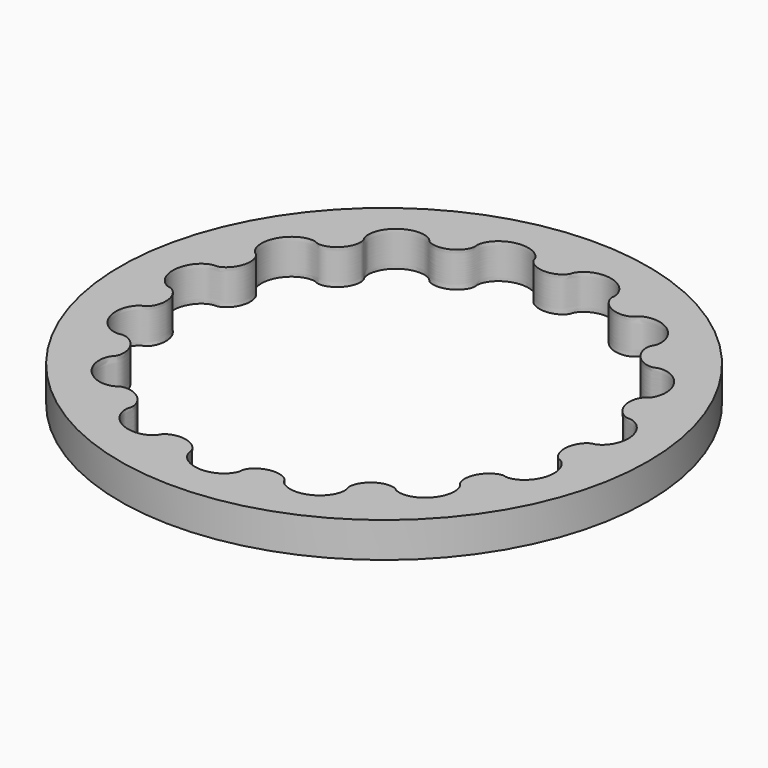
from build123d import *

# Parameters (mm, degrees)
PAD001_DEPTH = 2
SKETCH_R     = 15
PAD_DEPTH    = 2


with BuildPart() as pad001:
    # BSpline004 → Pad001 (new body)
    with BuildSketch(Plane.XY):
        with BuildLine():
            add(Edge.make_bspline(
                [(12.012584, -0.199604), (12.019755, -0.199195), (12.039746, -0.197416), (12.077758, -0.19092), (12.130612, -0.17674), (12.195961, -0.152197), (12.271058, -0.115179), (12.353306, -0.063921), (12.439895, 0.002867), (12.527839, 0.085935), (12.61406, 0.185463), (12.695494, 0.301045), (12.769197, 0.431703), (12.832459, 0.575918), (12.882894, 0.73168), (12.918533, 0.896564), (12.937895, 1.067811), (12.940042, 1.242429), (12.924613, 1.417302), (12.891837, 1.589299), (12.842528, 1.755388), (12.77805, 1.912746), (12.700273, 2.058859), (12.6115, 2.191612), (12.514385, 2.309365), (12.411837, 2.411009), (12.306911, 2.496005), (12.202701, 2.564393), (12.102226, 2.616819), (12.008345, 2.654402), (11.923591, 2.679019), (11.850375, 2.692248), (11.790405, 2.698159), (11.74649, 2.695723), (11.721197, 2.696599), (11.711479, 2.692953), (11.706136, 2.691796), (11.692254, 2.692401), (11.666474, 2.693789), (11.628489, 2.700222), (11.579362, 2.712584), (11.52043, 2.733193), (11.453461, 2.763355), (11.380446, 2.804289), (11.303561, 2.856724), (11.225076, 2.921006), (11.147281, 2.997039), (11.072401, 3.084313), (11.002524, 3.181911), (10.939528, 3.288546), (10.885016, 3.402607), (10.840262, 3.522215), (10.806165, 3.645285), (10.783223, 3.769604), (10.771509, 3.892901), (10.770674, 4.012932), (10.779955, 4.127551), (10.798201, 4.234791), (10.823913, 4.332928), (10.855294, 4.420541), (10.890304, 4.496574), (10.926754, 4.560339), (10.962318, 4.611652), (10.994795, 4.650529), (11.021745, 4.678061), (11.041786, 4.694337), (11.052661, 4.702985), (11.057664, 4.70519), (11.067669, 4.707952), (11.087616, 4.723528), (11.124576, 4.74737), (11.169618, 4.787402), (11.221076, 4.841139), (11.275173, 4.910872), (11.329034, 4.996459), (11.379505, 5.09793), (11.423615, 5.21451), (11.458543, 5.344948), (11.481761, 5.487455), (11.491115, 5.639802), (11.484903, 5.799381), (11.461943, 5.963305), (11.421614, 6.12851), (11.363882, 6.291862), (11.289301, 6.450275), (11.198996, 6.60082), (11.09462, 6.740827), (10.9783, 6.867988), (10.852551, 6.980433), (10.720193, 7.076803), (10.584246, 7.156291), (10.447819, 7.218673), (10.314004, 7.264317), (10.185739, 7.294152), (10.065797, 7.309682), (9.956383, 7.312757), (9.860041, 7.306072), (9.77655, 7.291311), (9.712032, 7.274372), (9.653713, 7.250571), (9.63503, 7.242732), (9.591726, 7.217216), (9.607147, 7.225587), (9.593198, 7.217336), (9.581709, 7.213628), (9.550208, 7.202361), (9.510035, 7.193579), (9.455403, 7.185542), (9.389504, 7.182099), (9.312522, 7.184648), (9.226253, 7.195174), (9.132361, 7.215073), (9.032891, 7.245473), (8.930006, 7.287081), (8.825974, 7.340195), (8.723068, 7.404685), (8.623495, 7.48), (8.529319, 7.565191), (8.44239, 7.658941), (8.364278, 7.75961), (8.296221, 7.865296), (8.23908, 7.973899), (8.193312, 8.08319), (8.158951, 8.190893), (8.135602, 8.294757), (8.12247, 8.392654), (8.118337, 8.482585), (8.121753, 8.562972), (8.130616, 8.632016), (8.143663, 8.689877), (8.156469, 8.732659), (8.172306, 8.768445), (8.177101, 8.780032), (8.189854, 8.799488), (8.184407, 8.790112), (8.203678, 8.816895), (8.212824, 8.830454), (8.241054, 8.880346), (8.264976, 8.937403), (8.289614, 9.01379), (8.308601, 9.104054), (8.320156, 9.208824), (8.321242, 9.325983), (8.309658, 9.453687), (8.28346, 9.589448), (8.241243, 9.730531), (8.182129, 9.873949), (8.105819, 10.016603), (8.012603, 10.155384), (7.903353, 10.287287), (7.77949, 10.409518), (7.642936, 10.519598), (7.496045, 10.615452), (7.34152, 10.695482), (7.182313, 10.758625), (7.02152, 10.804393), (6.862266, 10.832885), (6.7076, 10.844788), (6.560377, 10.841341), (6.423165, 10.824304), (6.298132, 10.795859), (6.187043, 10.758621), (6.090971, 10.715257), (6.010992, 10.669306), (5.945958, 10.622269), (5.899085, 10.581886), (5.860359, 10.53962), (5.850289, 10.526732), (5.830773, 10.500128), (5.838006, 10.508205), (5.823443, 10.490065), (5.813906, 10.481923), (5.784765, 10.455803), (5.748034, 10.430404), (5.697036, 10.400114), (5.63411, 10.37035), (5.558714, 10.34226), (5.471907, 10.318401), (5.374744, 10.300638), (5.268748, 10.290749), (5.155698, 10.290146), (5.037613, 10.299901), (4.916668, 10.320685), (4.795123, 10.352753), (4.675243, 10.395933), (4.55922, 10.449638), (4.449097, 10.512878), (4.346698, 10.584304), (4.253565, 10.662245), (4.170902, 10.744773), (4.099538, 10.829764), (4.039887, 10.914972), (3.991949, 10.998119), (3.955278, 11.076913), (3.929066, 11.149339), (3.911977, 11.213077), (3.902738, 11.267519), (3.898676, 11.308439), (3.899657, 11.34188), (3.899633, 11.353953), (3.90317, 11.369769), (3.899974, 11.352516), (3.91086, 11.401585), (3.912542, 11.421776), (3.917156, 11.484596), (3.913329, 11.55119), (3.901567, 11.635156), (3.878154, 11.728849), (3.841418, 11.831958), (3.789584, 11.94123), (3.721574, 12.053998), (3.636812, 12.167159), (3.535325, 12.277632), (3.417718, 12.382362), (3.285164, 12.478462), (3.139363, 12.563308), (2.982481, 12.634641), (2.817073, 12.690643), (2.645991, 12.730008), (2.472284, 12.751986), (2.299086, 12.756414), (2.129505, 12.743719), (1.966509, 12.7149), (1.812821, 12.671494), (1.670821, 12.615521), (1.542463, 12.549401), (1.429203, 12.475876), (1.331959, 12.3979), (1.251051, 12.318542), (1.186296, 12.24087), (1.136694, 12.167871), (1.101488, 12.102327), (1.077334, 12.047119), (1.06608, 12.0046), (1.057431, 11.980816), (1.057896, 11.970447), (1.057345, 11.965008), (1.05248, 11.951992), (1.043194, 11.927902), (1.025337, 11.893764), (0.998399, 11.850863), (0.960588, 11.801183), (0.911207, 11.746812), (0.849714, 11.69002), (0.776086, 11.633101), (0.690698, 11.578322), (0.594345, 11.52783), (0.488204, 11.483584), (0.37379, 11.447287), (0.252907, 11.420326), (0.127583, 11.403729), (0, 11.398126), (-0.127583, 11.403729), (-0.252907, 11.420326), (-0.37379, 11.447287), (-0.488204, 11.483584), (-0.594345, 11.52783), (-0.690698, 11.578322), (-0.776086, 11.633101), (-0.849714, 11.69002), (-0.911207, 11.746812), (-0.960588, 11.801183), (-0.998399, 11.850863), (-1.025337, 11.893764), (-1.043194, 11.927902), (-1.05248, 11.951992), (-1.057345, 11.965008), (-1.057896, 11.970447), (-1.057431, 11.980816), (-1.06608, 12.0046), (-1.077334, 12.047119), (-1.101488, 12.102327), (-1.136694, 12.167871), (-1.186296, 12.24087), (-1.251051, 12.318542), (-1.331959, 12.3979), (-1.429203, 12.475876), (-1.542463, 12.549401), (-1.670821, 12.615521), (-1.812821, 12.671494), (-1.966509, 12.7149), (-2.129505, 12.743719), (-2.299086, 12.756414), (-2.472284, 12.751986), (-2.645991, 12.730008), (-2.817073, 12.690643), (-2.982481, 12.634641), (-3.139363, 12.563308), (-3.285164, 12.478462), (-3.417718, 12.382362), (-3.535325, 12.277632), (-3.636812, 12.167159), (-3.721574, 12.053998), (-3.789584, 11.94123), (-3.841418, 11.831958), (-3.878154, 11.728849), (-3.901567, 11.635156), (-3.913329, 11.55119), (-3.917156, 11.484596), (-3.912542, 11.421776), (-3.91086, 11.401585), (-3.899974, 11.352516), (-3.90317, 11.369769), (-3.899633, 11.353953), (-3.899657, 11.34188), (-3.898676, 11.308439), (-3.902738, 11.267519), (-3.911977, 11.213077), (-3.929066, 11.149339), (-3.955278, 11.076913), (-3.991949, 10.998119), (-4.039887, 10.914972), (-4.099538, 10.829764), (-4.170902, 10.744773), (-4.253565, 10.662245), (-4.346698, 10.584304), (-4.449097, 10.512878), (-4.55922, 10.449638), (-4.675243, 10.395933), (-4.795123, 10.352753), (-4.916668, 10.320685), (-5.037613, 10.299901), (-5.155698, 10.290146), (-5.268748, 10.290749), (-5.374744, 10.300638), (-5.471907, 10.318401), (-5.558714, 10.34226), (-5.63411, 10.37035), (-5.697036, 10.400114), (-5.748034, 10.430404), (-5.784765, 10.455803), (-5.813906, 10.481923), (-5.823443, 10.490065), (-5.838006, 10.508205), (-5.830773, 10.500128), (-5.850289, 10.526732), (-5.860359, 10.53962), (-5.899085, 10.581886), (-5.945958, 10.622269), (-6.010992, 10.669306), (-6.090971, 10.715257), (-6.187043, 10.758621), (-6.298132, 10.795859), (-6.423165, 10.824304), (-6.560377, 10.841341), (-6.7076, 10.844788), (-6.862266, 10.832885), (-7.02152, 10.804393), (-7.182313, 10.758625), (-7.34152, 10.695482), (-7.496045, 10.615452), (-7.642936, 10.519598), (-7.77949, 10.409518), (-7.903353, 10.287287), (-8.012603, 10.155384), (-8.105819, 10.016603), (-8.182129, 9.873949), (-8.241243, 9.730531), (-8.28346, 9.589448), (-8.309658, 9.453687), (-8.321242, 9.325983), (-8.320156, 9.208824), (-8.308601, 9.104054), (-8.289614, 9.01379), (-8.264976, 8.937403), (-8.241054, 8.880346), (-8.212824, 8.830454), (-8.203678, 8.816895), (-8.184407, 8.790112), (-8.189854, 8.799488), (-8.177101, 8.780032), (-8.172306, 8.768445), (-8.156469, 8.732659), (-8.143663, 8.689877), (-8.130616, 8.632016), (-8.121753, 8.562972), (-8.118337, 8.482585), (-8.12247, 8.392654), (-8.135602, 8.294757), (-8.158951, 8.190893), (-8.193312, 8.08319), (-8.23908, 7.973899), (-8.296221, 7.865296), (-8.364278, 7.75961), (-8.44239, 7.658941), (-8.529319, 7.565191), (-8.623495, 7.48), (-8.723068, 7.404685), (-8.825974, 7.340195), (-8.930006, 7.287081), (-9.032891, 7.245473), (-9.132361, 7.215073), (-9.226253, 7.195174), (-9.312522, 7.184648), (-9.389504, 7.182099), (-9.455403, 7.185542), (-9.510035, 7.193579), (-9.550208, 7.202361), (-9.581709, 7.213628), (-9.593198, 7.217336), (-9.607147, 7.225587), (-9.591726, 7.217216), (-9.63503, 7.242732), (-9.653713, 7.250571), (-9.712032, 7.274372), (-9.77655, 7.291311), (-9.860041, 7.306072), (-9.956383, 7.312757), (-10.065797, 7.309682), (-10.185739, 7.294152), (-10.314004, 7.264317), (-10.447819, 7.218673), (-10.584246, 7.156291), (-10.720193, 7.076803), (-10.852551, 6.980433), (-10.9783, 6.867988), (-11.09462, 6.740827), (-11.198996, 6.60082), (-11.289301, 6.450275), (-11.363882, 6.291862), (-11.421614, 6.12851), (-11.461943, 5.963305), (-11.484903, 5.799381), (-11.491115, 5.639802), (-11.481761, 5.487455), (-11.458543, 5.344948), (-11.423615, 5.21451), (-11.379505, 5.09793), (-11.329034, 4.996459), (-11.275173, 4.910872), (-11.221076, 4.841139), (-11.169618, 4.787402), (-11.124576, 4.74737), (-11.087616, 4.723528), (-11.067669, 4.707952), (-11.057664, 4.70519), (-11.052661, 4.702985), (-11.041786, 4.694337), (-11.021745, 4.678061), (-10.994795, 4.650529), (-10.962318, 4.611652), (-10.926754, 4.560339), (-10.890304, 4.496574), (-10.855294, 4.420541), (-10.823913, 4.332928), (-10.798201, 4.234791), (-10.779955, 4.127551), (-10.770674, 4.012932), (-10.771509, 3.892901), (-10.783223, 3.769604), (-10.806165, 3.645285), (-10.840262, 3.522215), (-10.885016, 3.402607), (-10.939528, 3.288546), (-11.002524, 3.181911), (-11.072401, 3.084313), (-11.147281, 2.997039), (-11.225076, 2.921006), (-11.303561, 2.856724), (-11.380446, 2.804289), (-11.453461, 2.763355), (-11.52043, 2.733193), (-11.579362, 2.712584), (-11.628489, 2.700222), (-11.666474, 2.693789), (-11.692254, 2.692401), (-11.706136, 2.691796), (-11.711479, 2.692953), (-11.721197, 2.696599), (-11.74649, 2.695723), (-11.790405, 2.698159), (-11.850375, 2.692248), (-11.923591, 2.679019), (-12.008345, 2.654402), (-12.102226, 2.616819), (-12.202701, 2.564393), (-12.306911, 2.496005), (-12.411837, 2.411009), (-12.514385, 2.309365), (-12.6115, 2.191612), (-12.700273, 2.058859), (-12.77805, 1.912746), (-12.842528, 1.755388), (-12.891837, 1.589299), (-12.924613, 1.417302), (-12.940042, 1.242429), (-12.937895, 1.067811), (-12.918533, 0.896564), (-12.882894, 0.73168), (-12.832459, 0.575918), (-12.769197, 0.431703), (-12.695493, 0.301045), (-12.614063, 0.185463), (-12.527831, 0.085934), (-12.439924, 0.00287), (-12.353214, -0.06393), (-12.271342, -0.11515), (-12.19512, -0.152282), (-12.132967, -0.176501), (-12.071796, -0.191525), (-12.052074, -0.196165), (-12.002043, -0.200975), (-12.019439, -0.198683), (-12.003304, -0.200207), (-11.99183, -0.203961), (-11.959722, -0.213361), (-11.922059, -0.22987), (-11.873137, -0.25548), (-11.8178, -0.291428), (-11.757019, -0.338739), (-11.693412, -0.397963), (-11.629149, -0.469249), (-11.566545, -0.552311), (-11.507766, -0.646446), (-11.454821, -0.750565), (-11.409474, -0.863225), (-11.373188, -0.982684), (-11.347072, -1.10696), (-11.33185, -1.2339), (-11.327828, -1.361257), (-11.334889, -1.486762), (-11.352496, -1.60821), (-11.379709, -1.72353), (-11.415216, -1.830861), (-11.457376, -1.928613), (-11.504295, -2.015532), (-11.55381, -2.090717), (-11.603825, -2.153743), (-11.651578, -2.204392), (-11.696144, -2.243533), (-11.73165, -2.270618), (-11.765497, -2.290261), (-11.776187, -2.296815), (-11.79794, -2.30506), (-11.788023, -2.300676), (-11.819356, -2.311017), (-11.834725, -2.316611), (-11.886889, -2.34038), (-11.93978, -2.37248), (-12.004612, -2.419796), (-12.073028, -2.481662), (-12.143958, -2.55963), (-12.213702, -2.653775), (-12.279392, -2.763899), (-12.337996, -2.889131), (-12.386768, -3.028083), (-12.423243, -3.178857), (-12.445357, -3.339121), (-12.451517, -3.506188), (-12.440662, -3.677115), (-12.4123, -3.848807), (-12.366529, -4.018129), (-12.304034, -4.182016), (-12.226061, -4.337589), (-12.134375, -4.482252), (-12.031191, -4.613791), (-11.9191, -4.730449), (-11.800969, -4.830989), (-11.679837, -4.914736), (-11.558816, -4.981605), (-11.440942, -5.032085), (-11.329182, -5.067255), (-11.225969, -5.088642), (-11.134255, -5.098477), (-11.053994, -5.09865), (-10.992336, -5.09353), (-10.936163, -5.082099), (-10.920441, -5.077591), (-10.889014, -5.06754), (-10.899614, -5.069822), (-10.877169, -5.063707), (-10.864668, -5.062726), (-10.82574, -5.058722), (-10.781095, -5.059765), (-10.722033, -5.065235), (-10.65363, -5.078143), (-10.576121, -5.099734), (-10.49187, -5.131455), (-10.402822, -5.174196), (-10.311257, -5.228498), (-10.219443, -5.29446), (-10.129644, -5.371761), (-10.044015, -5.459665), (-9.964532, -5.55705), (-9.892927, -5.662448), (-9.830629, -5.774092), (-9.778709, -5.889984), (-9.73785, -6.007957), (-9.708316, -6.125755), (-9.68995, -6.241109), (-9.682171, -6.351816), (-9.683997, -6.455812), (-9.694086, -6.551256), (-9.710733, -6.636557), (-9.732098, -6.710558), (-9.755737, -6.772168), (-9.780263, -6.821642), (-9.801028, -6.857135), (-9.821479, -6.883613), (-9.828556, -6.893394), (-9.840714, -6.904111), (-9.827987, -6.892031), (-9.865636, -6.92533), (-9.878864, -6.940677), (-9.919522, -6.988787), (-9.955569, -7.044913), (-9.995407, -7.119756), (-10.031537, -7.209317), (-10.062423, -7.314326), (-10.084717, -7.433196), (-10.095979, -7.564403), (-10.09392, -7.705774), (-10.076749, -7.854801), (-10.043161, -8.008657), (-9.992409, -8.164316), (-9.924326, -8.318658), (-9.839334, -8.468581), (-9.738433, -8.611112), (-9.623162, -8.743519), (-9.495549, -8.863402), (-9.358032, -8.968787), (-9.213376, -9.058193), (-9.06457, -9.130685), (-8.91472, -9.185905), (-8.766939, -9.224087), (-8.624232, -9.246042), (-8.489385, -9.253131), (-8.36488, -9.247206), (-8.252779, -9.230561), (-8.154737, -9.205784), (-8.0717, -9.175883), (-8.004692, -9.14355), (-7.9527, -9.113082), (-7.918604, -9.0853), (-7.897626, -9.071141), (-7.891908, -9.062479), (-7.888265, -9.058403), (-7.876679, -9.050733), (-7.855006, -9.036702), (-7.820494, -9.019579), (-7.773484, -9.000705), (-7.713693, -8.982738), (-7.641785, -8.967777), (-7.558654, -8.957975), (-7.465632, -8.955205), (-7.364353, -8.961077), (-7.256724, -8.976863), (-7.144846, -9.003456), (-7.030949, -9.041341), (-6.917305, -9.090583), (-6.806161, -9.150819), (-6.69965, -9.221278), (-6.599727, -9.300802), (-6.508093, -9.387893), (-6.426144, -9.480758), (-6.354916, -9.577373), (-6.295053, -9.675558), (-6.246781, -9.773041), (-6.209899, -9.867549), (-6.183788, -9.956874), (-6.167421, -10.038965), (-6.159429, -10.111977), (-6.158041, -10.174393), (-6.161464, -10.224935), (-6.167084, -10.26305), (-6.173731, -10.287997), (-6.177445, -10.301386), (-6.180196, -10.30611), (-6.186667, -10.314226), (-6.19365, -10.338551), (-6.209537, -10.379565), (-6.222447, -10.438426), (-6.232491, -10.512147), (-6.235269, -10.600359), (-6.228536, -10.701259), (-6.209725, -10.813018), (-6.176886, -10.93326), (-6.128474, -11.059316), (-6.063495, -11.188254), (-5.981515, -11.317004), (-5.882691, -11.442455), (-5.767764, -11.561577), (-5.638033, -11.671525), (-5.49531, -11.769746), (-5.34186, -11.854067), (-5.180313, -11.92278), (-5.013578, -11.974698), (-4.844729, -12.009201), (-4.676902, -12.026258), (-4.513178, -12.026425), (-4.356473, -12.010825), (-4.209434, -11.981103), (-4.074346, -11.939375), (-3.953041, -11.88812), (-3.846877, -11.830184), (-3.756552, -11.76836), (-3.682539, -11.706323), (-3.62367, -11.645306), (-3.581431, -11.59368), (-3.548239, -11.540145), (-3.537731, -11.522822), (-3.517696, -11.476726), (-3.525252, -11.492562), (-3.518817, -11.477688), (-3.511701, -11.467935), (-3.492839, -11.440303), (-3.4655, -11.409586), (-3.426026, -11.370972), (-3.374736, -11.329452), (-3.310959, -11.286265), (-3.234978, -11.244073), (-3.147322, -11.204984), (-3.04898, -11.171111), (-2.941288, -11.144299), (-2.825904, -11.12612), (-2.704745, -11.117806), (-2.57992, -11.12021), (-2.453657, -11.133777), (-2.328225, -11.158526), (-2.205859, -11.194056), (-2.088679, -11.239555), (-1.978616, -11.29383), (-1.877349, -11.355346), (-1.786244, -11.422283), (-1.706304, -11.492586), (-1.638138, -11.564068), (-1.581934, -11.634394), (-1.537448, -11.701437), (-1.504035, -11.762503), (-1.480581, -11.816984), (-1.465793, -11.859122), (-1.457571, -11.897382), (-1.454641, -11.909574), (-1.453522, -11.93281), (-1.454626, -11.922024), (-1.454474, -11.955019), (-1.453903, -11.971364), (-1.447417, -12.028321), (-1.433232, -12.088542), (-1.408266, -12.164822), (-1.37057, -12.249008), (-1.318336, -12.34056), (-1.250351, -12.435982), (-1.165917, -12.532488), (-1.064924, -12.626922), (-0.947843, -12.716246), (-0.81572, -12.797527), (-0.670134, -12.868083), (-0.513147, -12.925568), (-0.347232, -12.968064), (-0.175178, -12.994146), (0, -13.002939), (0.175178, -12.994146), (0.347232, -12.968064), (0.513147, -12.925568), (0.670134, -12.868083), (0.81572, -12.797527), (0.947843, -12.716246), (1.064924, -12.626922), (1.165917, -12.532488), (1.250351, -12.435982), (1.318336, -12.34056), (1.37057, -12.249008), (1.408266, -12.164822), (1.433232, -12.088542), (1.447417, -12.028321), (1.453903, -11.971364), (1.454474, -11.955019), (1.454626, -11.922024), (1.453522, -11.93281), (1.454641, -11.909574), (1.457571, -11.897382), (1.465793, -11.859122), (1.480581, -11.816984), (1.504035, -11.762503), (1.537448, -11.701437), (1.581934, -11.634394), (1.638138, -11.564068), (1.706304, -11.492586), (1.786244, -11.422283), (1.877349, -11.355346), (1.978616, -11.29383), (2.088679, -11.239555), (2.205859, -11.194056), (2.328225, -11.158526), (2.453657, -11.133777), (2.57992, -11.12021), (2.704745, -11.117806), (2.825904, -11.12612), (2.941288, -11.144299), (3.04898, -11.171111), (3.147322, -11.204984), (3.234978, -11.244073), (3.310959, -11.286265), (3.374736, -11.329452), (3.426026, -11.370972), (3.4655, -11.409586), (3.492839, -11.440303), (3.511701, -11.467935), (3.518817, -11.477688), (3.525252, -11.492562), (3.517696, -11.476726), (3.537731, -11.522822), (3.548239, -11.540145), (3.581431, -11.59368), (3.62367, -11.645306), (3.682539, -11.706323), (3.756552, -11.76836), (3.846877, -11.830184), (3.953041, -11.88812), (4.074346, -11.939375), (4.209434, -11.981103), (4.356473, -12.010825), (4.513178, -12.026425), (4.676902, -12.026258), (4.844729, -12.009201), (5.013578, -11.974698), (5.180313, -11.92278), (5.34186, -11.854067), (5.49531, -11.769746), (5.638033, -11.671525), (5.767764, -11.561577), (5.882691, -11.442455), (5.981515, -11.317004), (6.063495, -11.188254), (6.128474, -11.059316), (6.176886, -10.93326), (6.209725, -10.813018), (6.228536, -10.701259), (6.235269, -10.600359), (6.232491, -10.512147), (6.222447, -10.438426), (6.209537, -10.379565), (6.19365, -10.338551), (6.186667, -10.314226), (6.180196, -10.30611), (6.177445, -10.301386), (6.173731, -10.287997), (6.167084, -10.26305), (6.161464, -10.224935), (6.158041, -10.174393), (6.159429, -10.111977), (6.167421, -10.038965), (6.183788, -9.956874), (6.209899, -9.867549), (6.246781, -9.773041), (6.295053, -9.675558), (6.354916, -9.577373), (6.426144, -9.480758), (6.508093, -9.387893), (6.599727, -9.300802), (6.69965, -9.221278), (6.806161, -9.150819), (6.917305, -9.090583), (7.030949, -9.041341), (7.144846, -9.003456), (7.256724, -8.976863), (7.364353, -8.961077), (7.465632, -8.955205), (7.558654, -8.957975), (7.641785, -8.967777), (7.713693, -8.982738), (7.773484, -9.000705), (7.820494, -9.019579), (7.855006, -9.036702), (7.876679, -9.050733), (7.888265, -9.058403), (7.891908, -9.062479), (7.897626, -9.071141), (7.918604, -9.0853), (7.9527, -9.113082), (8.004692, -9.14355), (8.0717, -9.175883), (8.154737, -9.205784), (8.252779, -9.230561), (8.36488, -9.247206), (8.489385, -9.253131), (8.624232, -9.246042), (8.766939, -9.224087), (8.91472, -9.185905), (9.06457, -9.130685), (9.213376, -9.058193), (9.358032, -8.968787), (9.495549, -8.863402), (9.623162, -8.743519), (9.738433, -8.611112), (9.839334, -8.468581), (9.924326, -8.318658), (9.992409, -8.164316), (10.043161, -8.008657), (10.076749, -7.854801), (10.09392, -7.705774), (10.095979, -7.564403), (10.084717, -7.433196), (10.062423, -7.314326), (10.031537, -7.209317), (9.995407, -7.119756), (9.955569, -7.044913), (9.919522, -6.988787), (9.878864, -6.940677), (9.865636, -6.92533), (9.827987, -6.892031), (9.840714, -6.904111), (9.828556, -6.893394), (9.821479, -6.883613), (9.801028, -6.857135), (9.780263, -6.821642), (9.755737, -6.772168), (9.732098, -6.710558), (9.710733, -6.636557), (9.694086, -6.551256), (9.683997, -6.455812), (9.682171, -6.351816), (9.68995, -6.241109), (9.708316, -6.125755), (9.73785, -6.007957), (9.778709, -5.889984), (9.830629, -5.774092), (9.892927, -5.662448), (9.964532, -5.55705), (10.044015, -5.459665), (10.129644, -5.371761), (10.219443, -5.29446), (10.311257, -5.228498), (10.402822, -5.174196), (10.49187, -5.131455), (10.576121, -5.099734), (10.65363, -5.078143), (10.722033, -5.065235), (10.781095, -5.059765), (10.82574, -5.058722), (10.864668, -5.062726), (10.877169, -5.063707), (10.899614, -5.069822), (10.889014, -5.06754), (10.920441, -5.077591), (10.936163, -5.082099), (10.992336, -5.09353), (11.053994, -5.09865), (11.134255, -5.098477), (11.225969, -5.088642), (11.329182, -5.067255), (11.440942, -5.032085), (11.558816, -4.981605), (11.679837, -4.914736), (11.800969, -4.830989), (11.9191, -4.730449), (12.031191, -4.613791), (12.134375, -4.482252), (12.226061, -4.337589), (12.304034, -4.182016), (12.366529, -4.018129), (12.4123, -3.848807), (12.440662, -3.677115), (12.451517, -3.506188), (12.445357, -3.339121), (12.423243, -3.178857), (12.386768, -3.028083), (12.337996, -2.889131), (12.279392, -2.763899), (12.213702, -2.653775), (12.143958, -2.55963), (12.073028, -2.481662), (12.004612, -2.419796), (11.93978, -2.37248), (11.886889, -2.34038), (11.834725, -2.316611), (11.819356, -2.311017), (11.788023, -2.300676), (11.79794, -2.30506), (11.776187, -2.296815), (11.765497, -2.290261), (11.73165, -2.270618), (11.696144, -2.243533), (11.651578, -2.204392), (11.603825, -2.153743), (11.55381, -2.090717), (11.504295, -2.015532), (11.457376, -1.928613), (11.415216, -1.830861), (11.379709, -1.72353), (11.352496, -1.60821), (11.334889, -1.486762), (11.327828, -1.361257), (11.33185, -1.2339), (11.347072, -1.10696), (11.373188, -0.982684), (11.409474, -0.863225), (11.454821, -0.750565), (11.507766, -0.646446), (11.566545, -0.552311), (11.629148, -0.469249), (11.693415, -0.397963), (11.757009, -0.33874), (11.817828, -0.291426), (11.873054, -0.255488), (11.922289, -0.229846), (11.959149, -0.213419), (11.993039, -0.203838), (12.00148, -0.200392), (12.021266, -0.198498), (12.011253, -0.19968), (12.012584, -0.199604)],
                knots=[0, 0, 0, 0, 0.021532, 0.060197, 0.115505, 0.185457, 0.269272, 0.366268, 0.475713, 0.596788, 0.728582, 0.870094, 1.020242, 1.177865, 1.341741, 1.51059, 1.683091, 1.857888, 2.033606, 2.208864, 2.382281, 2.552496, 2.718175, 2.878021, 3.030793, 3.175308, 3.310457, 3.43521, 3.548628, 3.649859, 3.738144, 3.812793, 3.873094, 3.917786, 3.945849, 3.946773, 3.94889, 3.962181, 3.988045, 4.026564, 4.07738, 4.139942, 4.213567, 4.297461, 4.390732, 4.492401, 4.601416, 4.716655, 4.836941, 4.961053, 5.087735, 5.215707, 5.343679, 5.470361, 5.594473, 5.71476, 5.829998, 5.939013, 6.040683, 6.133953, 6.217847, 6.291472, 6.354035, 6.40485, 6.443369, 6.469233, 6.482525, 6.484642, 6.485566, 6.513628, 6.558321, 6.618621, 6.69327, 6.781556, 6.882787, 6.996204, 7.120958, 7.256107, 7.400622, 7.553393, 7.71324, 7.878918, 8.049133, 8.222551, 8.397808, 8.573527, 8.748324, 8.920824, 9.089673, 9.253549, 9.411173, 9.56132, 9.702833, 9.834627, 9.955702, 10.065146, 10.162142, 10.245957, 10.31591, 10.371217, 10.409883, 10.431414, 10.435412, 10.441306, 10.458721, 10.488826, 10.531495, 10.586295, 10.652626, 10.729768, 10.81689, 10.913073, 11.017312, 11.128529, 11.245583, 11.367283, 11.492392, 11.619647, 11.747763, 11.875448, 12.001414, 12.124389, 12.243127, 12.356419, 12.463107, 12.562091, 12.65234, 12.732906, 12.802926, 12.861643, 12.908414, 12.942741, 12.964365, 12.973728, 12.975931, 12.987399, 13.020314, 13.070458, 13.135631, 13.214901, 13.307581, 13.412962, 13.530257, 13.658585, 13.796975, 13.944369, 14.099633, 14.261565, 14.428901, 14.600334, 14.774517, 14.950082, 15.125647, 15.29983, 15.471263, 15.638599, 15.80053, 15.955795, 16.103189, 16.241579, 16.369907, 16.487201, 16.592583, 16.685263, 16.764532, 16.829706, 16.879849, 16.912765, 16.924233, 16.926436, 16.935799, 16.957423, 16.99175, 17.038521, 17.097238, 17.167258, 17.247824, 17.338073, 17.437057, 17.543745, 17.657037, 17.775774, 17.898749, 18.024716, 18.152401, 18.280517, 18.407772, 18.532881, 18.65458, 18.771635, 18.882852, 18.98709, 19.083273, 19.170396, 19.247538, 19.313869, 19.368669, 19.411338, 19.441443, 19.458858, 19.464752, 19.468749, 19.490281, 19.528946, 19.584254, 19.654207, 19.738021, 19.835017, 19.944462, 20.065537, 20.197331, 20.338844, 20.488991, 20.646615, 20.81049, 20.97934, 21.15184, 21.326637, 21.502356, 21.677613, 21.851031, 22.021246, 22.186924, 22.34677, 22.499542, 22.644057, 22.779206, 22.90396, 23.017377, 23.118608, 23.206893, 23.281543, 23.341843, 23.386536, 23.414598, 23.415522, 23.417639, 23.430931, 23.456794, 23.495313, 23.546129, 23.608692, 23.682317, 23.76621, 23.859481, 23.961151, 24.070165, 24.185404, 24.305691, 24.429803, 24.556484, 24.684457, 24.812429, 24.939111, 25.063223, 25.183509, 25.298748, 25.407762, 25.509432, 25.602703, 25.686596, 25.760222, 25.822784, 25.8736, 25.912119, 25.937982, 25.951274, 25.953391, 25.954315, 25.982378, 26.02707, 26.087371, 26.16202, 26.250305, 26.351536, 26.464953, 26.589707, 26.724856, 26.869371, 27.022143, 27.181989, 27.347667, 27.517882, 27.6913, 27.866558, 28.042276, 28.217073, 28.389574, 28.558423, 28.722299, 28.879922, 29.030069, 29.171582, 29.303376, 29.424451, 29.533896, 29.630892, 29.714707, 29.784659, 29.839967, 29.878632, 29.900164, 29.904161, 29.910055, 29.92747, 29.957575, 30.000244, 30.055044, 30.121376, 30.198517, 30.28564, 30.381823, 30.486062, 30.597278, 30.714333, 30.836032, 30.961142, 31.088396, 31.216512, 31.344198, 31.470164, 31.593139, 31.711876, 31.825169, 31.931856, 32.03084, 32.12109, 32.201655, 32.271676, 32.330393, 32.377163, 32.41149, 32.433114, 32.442478, 32.44468, 32.456148, 32.489064, 32.539207, 32.604381, 32.68365, 32.77633, 32.881712, 32.999007, 33.127335, 33.265724, 33.413118, 33.568383, 33.730314, 33.897651, 34.069083, 34.243266, 34.418831, 34.594396, 34.76858, 34.940012, 35.107349, 35.26928, 35.424544, 35.571939, 35.710328, 35.838656, 35.955951, 36.061333, 36.154013, 36.233282, 36.298456, 36.348599, 36.381515, 36.392982, 36.395185, 36.404549, 36.426172, 36.4605, 36.50727, 36.565987, 36.636008, 36.716573, 36.806823, 36.905806, 37.012494, 37.125786, 37.244524, 37.367499, 37.493465, 37.62115, 37.749266, 37.876521, 38.001631, 38.12333, 38.240384, 38.351601, 38.45584, 38.552023, 38.639146, 38.716287, 38.782619, 38.837418, 38.880088, 38.910192, 38.927607, 38.933502, 38.937499, 38.959031, 38.997696, 39.053004, 39.122956, 39.206771, 39.303767, 39.413212, 39.534287, 39.666081, 39.807593, 39.957741, 40.115364, 40.27924, 40.448089, 40.620589, 40.795386, 40.971105, 41.146363, 41.31978, 41.489995, 41.655673, 41.81552, 41.968291, 42.112807, 42.247956, 42.372709, 42.486126, 42.587357, 42.675643, 42.750292, 42.810593, 42.855285, 42.883347, 42.884272, 42.886388, 42.89968, 42.925544, 42.964063, 43.014879, 43.077441, 43.151066, 43.23496, 43.328231, 43.4299, 43.538915, 43.654154, 43.77444, 43.898552, 44.025234, 44.153206, 44.281178, 44.40786, 44.531972, 44.652258, 44.767497, 44.876512, 44.978182, 45.071452, 45.155346, 45.228971, 45.291533, 45.342349, 45.380868, 45.406732, 45.420024, 45.42214, 45.423065, 45.451127, 45.49582, 45.55612, 45.630769, 45.719055, 45.820286, 45.933703, 46.058456, 46.193605, 46.338121, 46.490892, 46.650739, 46.816417, 46.986632, 47.160049, 47.335307, 47.511026, 47.685823, 47.858323, 48.027172, 48.191048, 48.348671, 48.498819, 48.640331, 48.772125, 48.8932, 49.002645, 49.099641, 49.183456, 49.253409, 49.308716, 49.347381, 49.368913, 49.37291, 49.378805, 49.39622, 49.426324, 49.468994, 49.523793, 49.590125, 49.667266, 49.754389, 49.850572, 49.954811, 50.066028, 50.183082, 50.304782, 50.429891, 50.557146, 50.685262, 50.812947, 50.938913, 51.061888, 51.180626, 51.293918, 51.400606, 51.499589, 51.589839, 51.670404, 51.740425, 51.799142, 51.845912, 51.88024, 51.901863, 51.911227, 51.91343, 51.924897, 51.957813, 52.007956, 52.07313, 52.1524, 52.245079, 52.350461, 52.467756, 52.596084, 52.734474, 52.881868, 53.037132, 53.199064, 53.3664, 53.537832, 53.712016, 53.887581, 54.063146, 54.237329, 54.408762, 54.576098, 54.738029, 54.893294, 55.040688, 55.179078, 55.307405, 55.4247, 55.530082, 55.622762, 55.702031, 55.767205, 55.817348, 55.850264, 55.861732, 55.863934, 55.873298, 55.894922, 55.929249, 55.97602, 56.034736, 56.104757, 56.185322, 56.275572, 56.374556, 56.481244, 56.594536, 56.713273, 56.836248, 56.962215, 57.0899, 57.218016, 57.34527, 57.47038, 57.592079, 57.709134, 57.820351, 57.924589, 58.020772, 58.107895, 58.185036, 58.251368, 58.306168, 58.348837, 58.378942, 58.396357, 58.402251, 58.406248, 58.42778, 58.466445, 58.521753, 58.591706, 58.67552, 58.772516, 58.881961, 59.003036, 59.13483, 59.276343, 59.42649, 59.584114, 59.747989, 59.916839, 60.089339, 60.264136, 60.439855, 60.615112, 60.78853, 60.958745, 61.124423, 61.284269, 61.437041, 61.581556, 61.716705, 61.841459, 61.954876, 62.056107, 62.144392, 62.219041, 62.279342, 62.324034, 62.352097, 62.353021, 62.355138, 62.36843, 62.394293, 62.432812, 62.483628, 62.54619, 62.619816, 62.703709, 62.79698, 62.89865, 63.007664, 63.122903, 63.243189, 63.367301, 63.493983, 63.621955, 63.749928, 63.876609, 64.000722, 64.121008, 64.236247, 64.345261, 64.446931, 64.540202, 64.624095, 64.697721, 64.760283, 64.811099, 64.849618, 64.875481, 64.888773, 64.89089, 64.891814, 64.919877, 64.964569, 65.02487, 65.099519, 65.187804, 65.289035, 65.402452, 65.527206, 65.662355, 65.80687, 65.959642, 66.119488, 66.285166, 66.455381, 66.628799, 66.804056, 66.979775, 67.154572, 67.327072, 67.495922, 67.659797, 67.817421, 67.967568, 68.109081, 68.240875, 68.36195, 68.471395, 68.568391, 68.652205, 68.722158, 68.777466, 68.816131, 68.837663, 68.84166, 68.847554, 68.864969, 68.895074, 68.937743, 68.992543, 69.058875, 69.136016, 69.223139, 69.319322, 69.42356, 69.534777, 69.651832, 69.773531, 69.89864, 70.025895, 70.154011, 70.281696, 70.407663, 70.530638, 70.649375, 70.762667, 70.869355, 70.968339, 71.058589, 71.139154, 71.209175, 71.267891, 71.314662, 71.348989, 71.370613, 71.379976, 71.382179, 71.393647, 71.426563, 71.476706, 71.54188, 71.621149, 71.713829, 71.819211, 71.936506, 72.064833, 72.203223, 72.350617, 72.505882, 72.667813, 72.835149, 73.006582, 73.180765, 73.35633, 73.531895, 73.706079, 73.877511, 74.044847, 74.206779, 74.362043, 74.509437, 74.647827, 74.776155, 74.89345, 74.998831, 75.091511, 75.170781, 75.235954, 75.286098, 75.319014, 75.330481, 75.332684, 75.342048, 75.363671, 75.397999, 75.444769, 75.503486, 75.573507, 75.654072, 75.744321, 75.843305, 75.949993, 76.063285, 76.182023, 76.304998, 76.430964, 76.558649, 76.686765, 76.81402, 76.939129, 77.060829, 77.177883, 77.2891, 77.393339, 77.489522, 77.576645, 77.653786, 77.720118, 77.774917, 77.817587, 77.847691, 77.865106, 77.871, 77.874998, 77.89653, 77.935195, 77.990502, 78.060455, 78.14427, 78.241266, 78.350711, 78.471786, 78.60358, 78.745092, 78.89524, 79.052863, 79.216739, 79.385588, 79.558088, 79.732885, 79.908604, 80.083862, 80.257279, 80.427494, 80.593172, 80.753019, 80.90579, 81.050305, 81.185454, 81.310208, 81.423625, 81.524856, 81.613142, 81.687791, 81.748091, 81.792784, 81.820846, 81.82177, 81.823887, 81.837179, 81.863043, 81.901562, 81.952378, 82.01494, 82.088565, 82.172459, 82.265729, 82.367399, 82.476414, 82.591653, 82.711939, 82.836051, 82.962733, 83.090705, 83.218677, 83.345359, 83.469471, 83.589757, 83.704996, 83.814011, 83.91568, 84.008951, 84.092845, 84.16647, 84.229032, 84.279848, 84.318367, 84.344231, 84.357523, 84.359639, 84.360564, 84.388626, 84.433318, 84.493619, 84.568268, 84.656554, 84.757785, 84.871202, 84.995955, 85.131104, 85.27562, 85.428391, 85.588238, 85.753916, 85.924131, 86.097548, 86.272806, 86.448525, 86.623321, 86.795822, 86.964671, 87.128547, 87.28617, 87.436318, 87.57783, 87.709624, 87.830699, 87.940144, 88.03714, 88.120955, 88.190907, 88.246215, 88.28488, 88.306412, 88.310409, 88.316304, 88.333719, 88.363823, 88.406492, 88.461292, 88.527624, 88.604765, 88.691888, 88.788071, 88.89231, 89.003527, 89.120581, 89.24228, 89.36739, 89.494645, 89.622761, 89.750446, 89.876412, 89.999387, 90.118125, 90.231417, 90.338105, 90.437088, 90.527338, 90.607903, 90.677924, 90.736641, 90.783411, 90.817739, 90.839362, 90.848726, 90.850929, 90.862396, 90.895312, 90.945455, 91.010629, 91.089898, 91.182578, 91.28796, 91.405255, 91.533583, 91.671972, 91.819367, 91.974631, 92.136562, 92.303899, 92.475331, 92.649515, 92.82508, 93.000645, 93.174828, 93.34626, 93.513597, 93.675528, 93.830793, 93.978187, 94.116576, 94.244904, 94.362199, 94.467581, 94.560261, 94.63953, 94.704704, 94.754847, 94.787763, 94.799231, 94.801433, 94.810797, 94.832421, 94.866748, 94.913518, 94.972235, 95.042256, 95.122821, 95.213071, 95.312055, 95.418742, 95.532035, 95.650772, 95.773747, 95.899713, 96.027399, 96.155515, 96.282769, 96.407879, 96.529578, 96.646633, 96.757849, 96.862088, 96.958271, 97.045394, 97.122535, 97.188867, 97.243667, 97.286336, 97.316441, 97.333856, 97.33975, 97.343747, 97.343747, 97.343747, 97.343747], degree=3))
        make_face()
    extrude(amount=PAD001_DEPTH)


with BuildPart() as cut:
    # Sketch → Pad (new body)
    with BuildSketch(Plane.XY):
        Circle(SKETCH_R)
    extrude(amount=PAD_DEPTH)

    # Cut: cut Pad001
    add(pad001.part, mode=Mode.SUBTRACT)


with BuildPart() as cut_1:
    # Cut placement: moved
    add(cut.part.moved(Location((0, 0, -3))))


solid = cut_1.part
